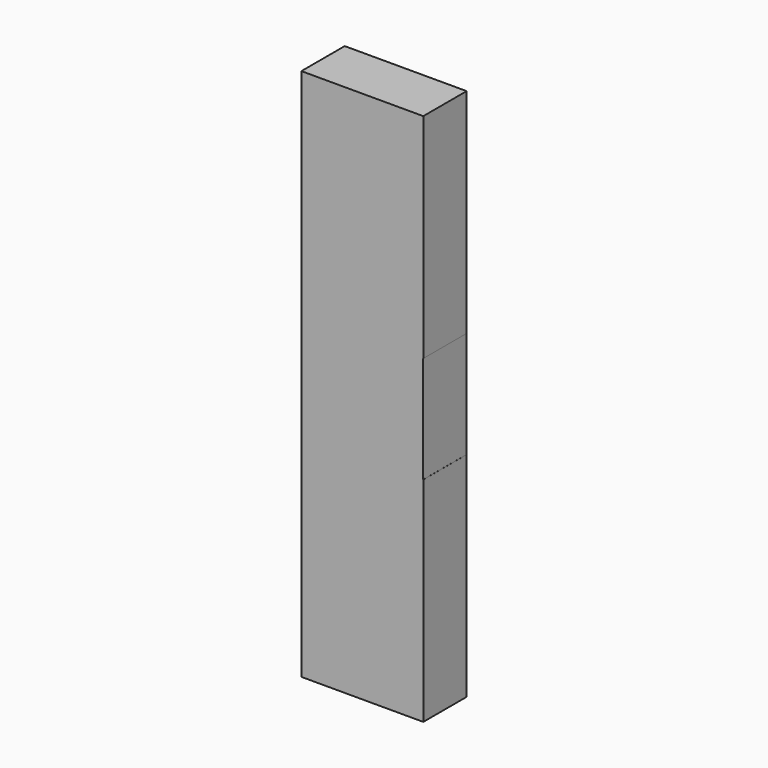
from build123d import *

# Parameters (mm, degrees)
RECTANGLE003_W       = 10.16
RECTANGLE003_H       = 20
EXTRUDE001_DEPTH     = 0.01
RECTANGLE_W          = 22.86
RECTANGLE_H          = 10.16
EXTRUDE_DEPTH        = 100
CLONE001_SCALE_SCALE = 0.001


with BuildPart() as extrude001:
    # Rectangle003 → Extrude001 (new body)
    with BuildSketch(Plane(origin=(11.43, -5.08, 40), x_dir=(0, 1, 0), z_dir=(1, 0, 0))):
        with Locations((5.08, 10)):
            Rectangle(RECTANGLE003_W, RECTANGLE003_H)
    extrude(amount=EXTRUDE001_DEPTH)


with BuildPart() as extrude001_1:
    # Extrude001 placement: moved
    add(extrude001.part.moved(Location((-0.01, 0, 0))))


with BuildPart() as extrude002:
    # Clone base: copy of Extrude001
    add(extrude001_1.part)


with BuildPart() as extrude002_1:
    # Clone placement: moved
    add(extrude002.part.moved(Location((-22.85, 0, 0))))


with BuildPart() as cut001:
    # Rectangle → Extrude (new body)
    with BuildSketch(Plane(origin=(-11.43, -5.08, 0), x_dir=(1, 0, 0), z_dir=(0, 0, 1))):
        with Locations((11.43, 5.08)):
            Rectangle(RECTANGLE_W, RECTANGLE_H)
    extrude(amount=EXTRUDE_DEPTH)

    # Cut: cut Extrude001
    add(extrude001_1.part, mode=Mode.SUBTRACT)

    # Cut001: cut Extrude002
    add(extrude002_1.part, mode=Mode.SUBTRACT)


with BuildPart() as scaled:
    # Clone001 base: copy of Cut001
    add(cut001.part)


with BuildPart() as scaled_1:
    # Clone001 scale: moved
    add(scaled.part.scale(CLONE001_SCALE_SCALE))


solid = Compound([cut001.part, scaled_1.part])
